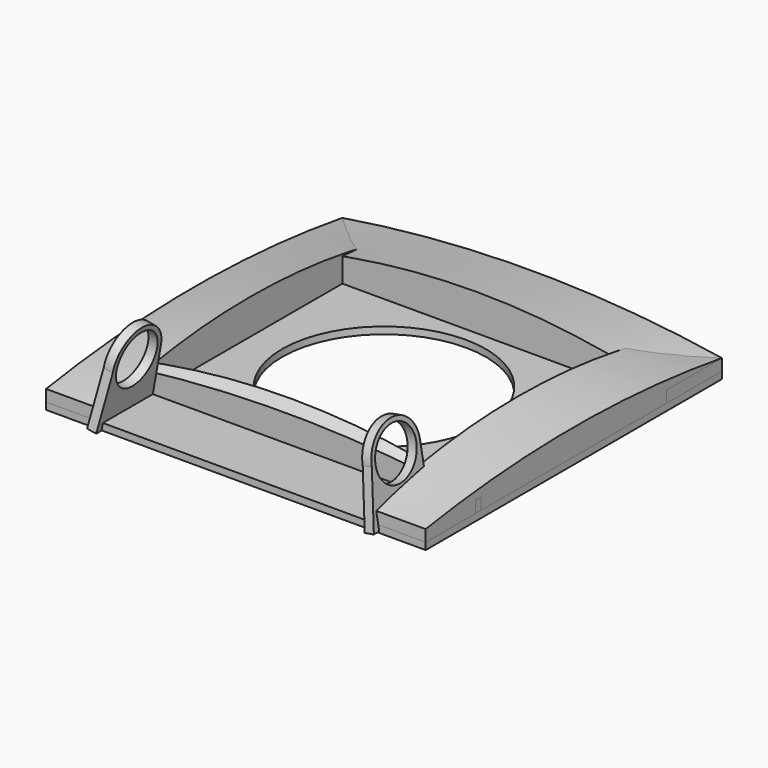
from build123d import *

# Parameters (mm, degrees)
SKETCH_W                                     = 82
SKETCH_H                                     = 80
SKETCH_R                                     = 22
EXTRUDE_DEPTH                                = 1.5
SKETCH009_AS_DRAWN_R                         = 5.5
EXTRUDE001_DEPTH                             = 2
EXTRUDE001_ONTO_SKETCH009_ROLL_ANGLE         = 100
EXTRUDE001_ONTO_SKETCH009_PLACEMENT_ANGLE    = 90
SKETCH010_AS_DRAWN_R                         = 5.5
EXTRUDE001001_DEPTH                          = 2
EXTRUDE001001_ONTO_SKETCH010_ROLL_ANGLE      = 80
EXTRUDE001001_ONTO_SKETCH010_PLACEMENT_ANGLE = 90


with BuildPart() as loft_body:
    # Sketch001 → Loft section 0
    with BuildSketch(Plane.YZ.offset(-29)):
        with BuildLine():
            Line((-40, 0), (-40, 4))
            ThreePointArc((40, 4), (0, 9.110025), (-40, 4))
            Line((40, 0), (40, 4))
            Line((-40, 0), (40, 0))
        make_face()
    # Sketch002 → Loft section 1
    with BuildSketch(Plane.YZ.offset(-41)):
        with BuildLine():
            Line((-40, 0), (-40, 4))
            ThreePointArc((40, 4), (0, 7.130317), (-40, 4))
            Line((40, 0), (40, 4))
            Line((-40, 0), (40, 0))
        make_face()
    loft()


with BuildPart() as loft001:
    # Sketch003 → Loft001 section 0
    with BuildSketch(Plane.YZ.offset(29)):
        with BuildLine():
            Line((-40, 0), (-40, 4))
            ThreePointArc((40, 4), (0, 9.110025), (-40, 4))
            Line((40, 0), (40, 4))
            Line((-40, 0), (40, 0))
        make_face()
    # Sketch004 → Loft001 section 1
    with BuildSketch(Plane.YZ.offset(41)):
        with BuildLine():
            Line((-40, 0), (-40, 4))
            ThreePointArc((40, 4), (0, 7.130317), (-40, 4))
            Line((40, 0), (40, 4))
            Line((-40, 0), (40, 0))
        make_face()
    loft()


with BuildPart() as loft002:
    # Sketch005 → Loft002 section 0
    with BuildSketch(Plane.XZ.offset(-40)):
        with BuildLine():
            Line((-41, 0), (-41, 4))
            ThreePointArc((41, 4), (0, 7.287777), (-41, 4))
            Line((41, 0), (41, 4))
            Line((-41, 0), (41, 0))
        make_face()
    # Sketch006 → Loft002 section 1
    with BuildSketch(Plane.XZ.offset(-25)):
        with BuildLine():
            Line((-41, 0), (-41, 4))
            ThreePointArc((41, 4), (0, 9.364362), (-41, 4))
            Line((41, 0), (41, 4))
            Line((-41, 0), (41, 0))
        make_face()
    loft()


with BuildPart() as loft003:
    # Sketch007 → Loft003 section 0
    with BuildSketch(Plane.XZ.offset(26.5)):
        with BuildLine():
            Line((-41, 0), (-41, 4))
            ThreePointArc((41, 4), (0, 7.287777), (-41, 4))
            Line((41, 0), (41, 4))
            Line((-41, 0), (41, 0))
        make_face()
    # Sketch008 → Loft003 section 1
    with BuildSketch(Plane.XZ.offset(25)):
        with BuildLine():
            Line((-41, 0), (-41, 4))
            ThreePointArc((41, 4), (0, 9.364362), (-41, 4))
            Line((41, 0), (41, 4))
            Line((-41, 0), (41, 0))
        make_face()
    loft()


with BuildPart() as extrude_body:
    # Sketch → Extrude (new body)
    with BuildSketch(Plane.XY):
        Rectangle(SKETCH_W, SKETCH_H)
        Circle(SKETCH_R, mode=Mode.SUBTRACT)
    extrude(amount=EXTRUDE_DEPTH)


with BuildPart() as extrude001:
    # Sketch009 as drawn → Extrude001 (new)
    with BuildSketch(Plane.XY):
        with BuildLine():
            Line((-8.460691, -0.047219), (-6.5, 11.5))
            ThreePointArc((6.5, 11.5), (0, 18), (-6.5, 11.5))
            Line((6.5, 0.047625), (6.5, 11.5))
            Line((-8.460691, -0.047219), (6.5, 0.047625))
        make_face()
        with Locations((0, 11.5)):
            Circle(SKETCH009_AS_DRAWN_R, mode=Mode.SUBTRACT)
    extrude(amount=-EXTRUDE001_DEPTH)


with BuildPart() as extrude001_1:
    # Extrude001 onto Sketch009 roll: moved
    add(extrude001.part.rotate(Axis((0, 0, 0), (1, 0, 0)), EXTRUDE001_ONTO_SKETCH009_ROLL_ANGLE))


with BuildPart() as extrude001_2:
    # Extrude001 onto Sketch009 placement: moved
    add(extrude001_1.part.moved(Location((-29, -33, 0))).rotate(Axis((-29, -33, 0), (0, 0, 1)), EXTRUDE001_ONTO_SKETCH009_PLACEMENT_ANGLE))


with BuildPart() as extrude001001:
    # Sketch010 as drawn → Extrude001001 (new)
    with BuildSketch(Plane.XY):
        with BuildLine():
            Line((-8.460691, -0.047219), (-6.5, 11.5))
            ThreePointArc((6.5, 11.5), (0, 18), (-6.5, 11.5))
            Line((6.5, 0.047625), (6.5, 11.5))
            Line((-8.460691, -0.047219), (6.5, 0.047625))
        make_face()
        with Locations((0, 11.5)):
            Circle(SKETCH010_AS_DRAWN_R, mode=Mode.SUBTRACT)
    extrude(amount=EXTRUDE001001_DEPTH)


with BuildPart() as extrude001001_1:
    # Extrude001001 onto Sketch010 roll: moved
    add(extrude001001.part.rotate(Axis((0, 0, 0), (1, 0, 0)), EXTRUDE001001_ONTO_SKETCH010_ROLL_ANGLE))


with BuildPart() as extrude001001_2:
    # Extrude001001 onto Sketch010 placement: moved
    add(extrude001001_1.part.moved(Location((29, -33, 0))).rotate(Axis((29, -33, 0), (0, 0, 1)), EXTRUDE001001_ONTO_SKETCH010_PLACEMENT_ANGLE))


solid = Compound([loft_body.part, loft001.part, loft002.part, loft003.part, extrude_body.part, extrude001_2.part, extrude001001_2.part])
